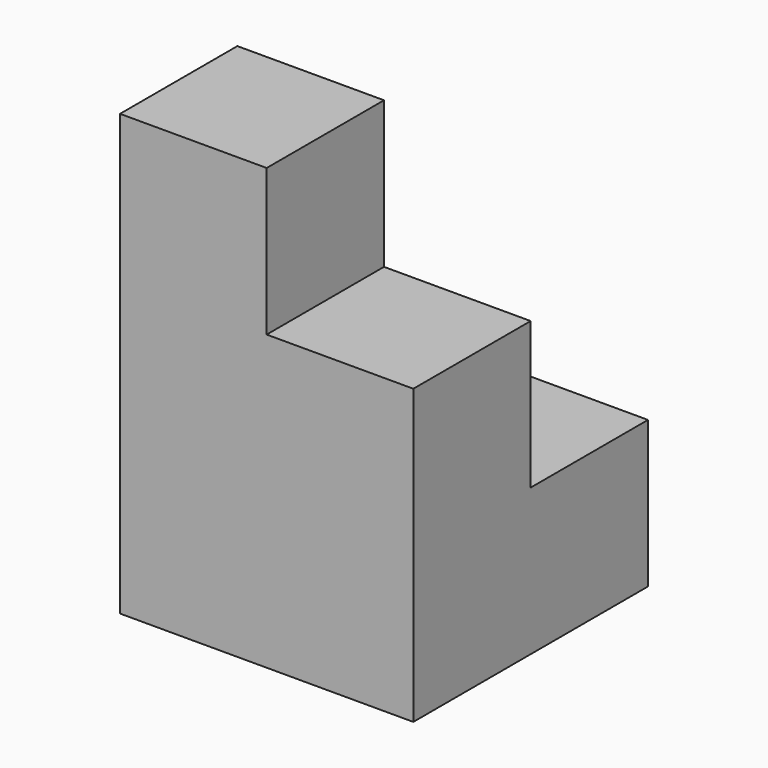
from build123d import *

# Parameters (mm, degrees)
F0_W      = 19.05
F0_H      = 19.05
F1_DEPTH  = 19.05
F2_W      = 19.05
F2_H      = 19.05
F3_DEPTH  = 19.05
F3_FACE_W = 19.05
F3_FACE_H = 19.05
F4_DEPTH  = 19.05


with BuildPart() as f1:
    # F0 (on Front) → F1 (new body)
    with BuildSketch(Plane.XZ):
        with Locations((9.525, 9.525)):
            Rectangle(F0_W, F0_H)
        with Locations((9.525, -9.525)):
            Rectangle(F0_W, F0_H)
        with Locations((28.575, -9.525)):
            Rectangle(F0_W, F0_H)
        with Locations((28.575, 9.525)):
            Rectangle(F0_W, F0_H)
        with Locations((9.525, 28.575)):
            Rectangle(F0_W, F0_H)
    extrude(amount=F1_DEPTH)

    # F2 (on Front) → F3 (join)
    with BuildSketch(Plane.XZ):
        with Locations((9.525, -9.525)):
            Rectangle(F2_W, F2_H)
    extrude(amount=-F3_DEPTH)

    # F3_face (on face) → F4 (join)
    with BuildSketch(Plane(origin=(19.05, 9.525, -9.525), x_dir=(0, 1, 0), z_dir=(1, 0, 0))):
        Rectangle(F3_FACE_W, F3_FACE_H)
    extrude(amount=F4_DEPTH)


solid = f1.part
